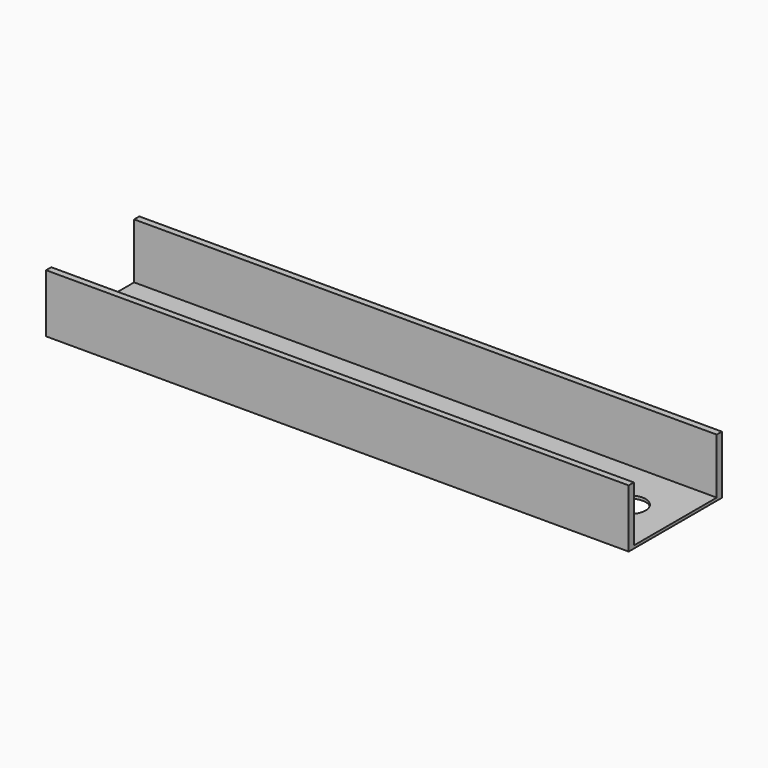
from build123d import *

# Parameters (mm, degrees)
F0_W          = 127
F0_H          = 25.4
F1_DEPTH      = 0.762
F2_DEPTH      = 12.7
F3_W          = 22.5780475885
F3_H          = 24.1802637465
F4_DEPTH      = 101.6
F4_DEPTH_BACK = 101.6
F5_R          = 3.429
F6_DEPTH      = 25.4


with BuildPart() as f1:
    # F0 (on Top) → F1 (new body)
    with BuildSketch(Plane.XY):
        Rectangle(F0_W, F0_H)
    extrude(amount=F1_DEPTH)

    # F0 (on Top) → F2 (join)
    with BuildSketch(Plane.XY):
        Rectangle(F0_W, F0_H)
    extrude(amount=F2_DEPTH)

    # F3 (on Right) → F4 (cut, two sides)
    with BuildSketch(Plane.YZ) as f4_sk:
        with Locations((0, 12.7019658685)):
            Rectangle(F3_W, F3_H)
    extrude(amount=-F4_DEPTH, mode=Mode.SUBTRACT)
    extrude(f4_sk.sketch, amount=F4_DEPTH_BACK, mode=Mode.SUBTRACT)

    # F5 (on face) → F6 (cut)
    with BuildSketch(Plane.XY.offset(0.6118339952)):
        Circle(F5_R)
        with Locations((-53.594, 0)):
            Circle(F5_R)
        with BuildLine():
            Line((-22.479, 3.429), (-35.814, 3.429))
            ThreePointArc((-35.814, 3.429), (-39.243, 0), (-35.814, -3.429))
            Line((-35.814, -3.429), (-22.479, -3.429))
            ThreePointArc((-22.479, -3.429), (-19.05, 0), (-22.479, 3.429))
        make_face()
        with BuildLine():
            ThreePointArc((35.814, -3.429), (39.243, 0), (35.814, 3.429))
            Line((35.814, 3.429), (22.479, 3.429))
            ThreePointArc((22.479, 3.429), (19.05, 0), (22.479, -3.429))
            Line((22.479, -3.429), (35.814, -3.429))
        make_face()
        with Locations((53.594, 0)):
            Circle(F5_R)
    extrude(amount=-F6_DEPTH, mode=Mode.SUBTRACT)


solid = f1.part
